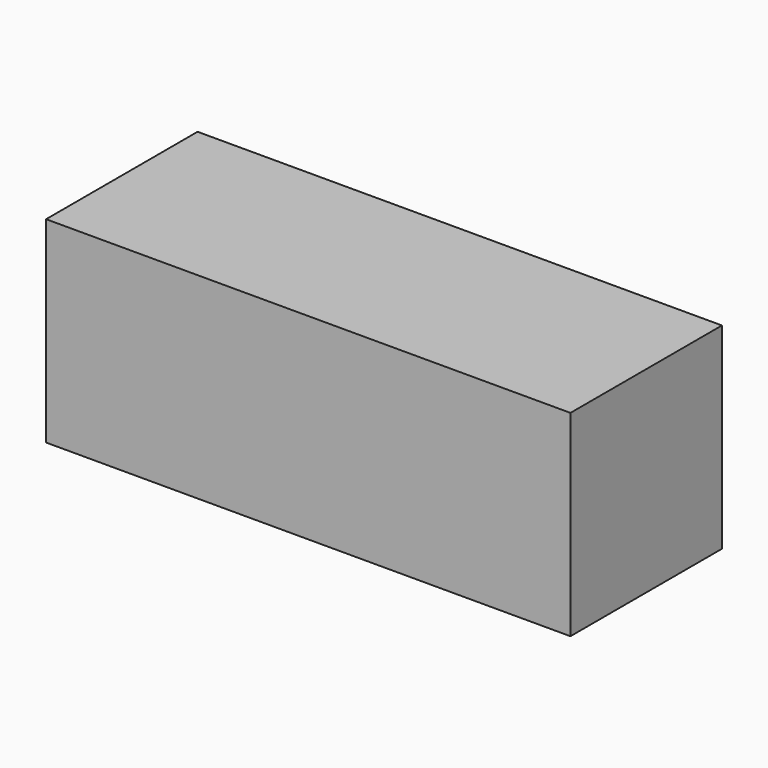
from build123d import *

# Parameters (mm, degrees)
F0_W     = 32
F0_H     = 9
F0_W_2   = 1
F1_DEPTH = 6.5
F2_DEPTH = 5.5
F3_DEPTH = 7
F4_W     = 1
F4_H     = 1
F5_DEPTH = 35
F8_DEPTH = 2
F4_W_2   = 9
F9_DEPTH = 35


with BuildPart() as f1:
    # F0 (on Top) → F1 (new body)
    with BuildSketch(Plane.XY):
        Polygon((4.2322745472, -4.5), (-27.7677254528, -4.5), (-28.7677254528, -4.5), (-28.7677254528, -6.5), (7.2322745472, -6.5), (7.2322745472, 6.5), (-28.7677254528, 6.5), (-28.7677254528, 4.5), (-27.7677254528, 4.5), (4.2322745472, 4.5), align=None)
        with Locations((-11.7677254528, 0)):
            Rectangle(F0_W, F0_H)
        with Locations((-28.2677254528, 0)):
            Rectangle(F0_W_2, F0_H)
    extrude(amount=F1_DEPTH)

    # F0 (on Top) → F2 (cut)
    with BuildSketch(Plane.XY):
        with Locations((-11.7677254528, 0)):
            Rectangle(F0_W, F0_H)
    extrude(amount=F2_DEPTH, mode=Mode.SUBTRACT)

    # F0 (on Top) → F3 (join)
    with BuildSketch(Plane.XY):
        Polygon((4.2322745472, -4.5), (-27.7677254528, -4.5), (-28.7677254528, -4.5), (-28.7677254528, -6.5), (7.2322745472, -6.5), (7.2322745472, 6.5), (-28.7677254528, 6.5), (-28.7677254528, 4.5), (-27.7677254528, 4.5), (4.2322745472, 4.5), align=None)
    extrude(amount=-F3_DEPTH)

    # F4 (on face) → F5 (cut)
    with BuildSketch(Plane(origin=(-28.7677254528, 0, 0), x_dir=(0, -1, 0), z_dir=(-1, 0, 0))):
        with Locations((-5, -4.5)):
            Rectangle(F4_W, F4_H)
    extrude(amount=-F5_DEPTH, mode=Mode.SUBTRACT)

    # F6: F1 across plane


with BuildPart() as f1_1:
    add(f1.part)
    add(f1.part.mirror(Plane.XZ), mode=Mode.INTERSECT)

    # F7 (on face) → F8 (cut)
    with BuildSketch(Plane(origin=(4.2322745472, 0, 0), x_dir=(0, -1, 0), z_dir=(-1, 0, 0))):
        Polygon((4.5, -4), (-4.5, -4), (-4.5, -5), (-4.5, -7), (4.5, -7), (4.5, -5), align=None)
    extrude(amount=-F8_DEPTH, mode=Mode.SUBTRACT)

    # F4 (on face) → F9 (join, through all)
    with BuildSketch(Plane(origin=(-28.7677254528, 0, 0), x_dir=(0, -1, 0), z_dir=(-1, 0, 0))):
        with Locations((0, -6.5)):
            Rectangle(F4_W_2, F4_H)
    extrude(amount=-F9_DEPTH)


solid = f1_1.part
